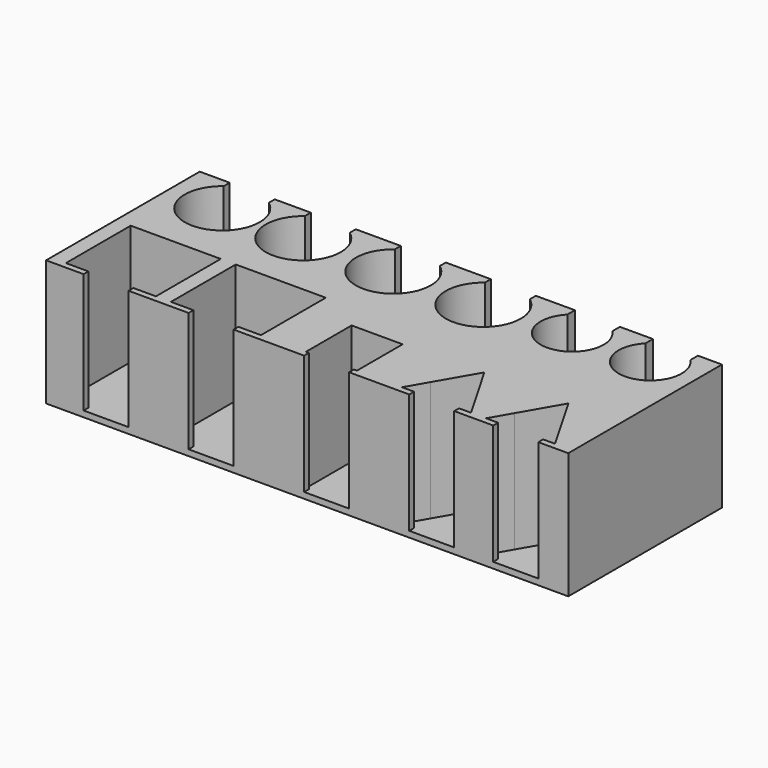
from build123d import *

# Parameters (mm, degrees)
F1_DEPTH = 40
F2_W     = 174
F2_H     = 64
F3_DEPTH = 2


with BuildPart() as f1:
    # F0 (on Top) → F1 (new body)
    with BuildSketch(Plane.XY):
        with BuildLine():
            Line((0, 64), (0, 0))
            Line((0, 0), (12.5, 0))
            Line((12.5, 0), (12.5, 2))
            Line((12.5, 2), (5, 2))
            Line((5, 2), (5, 29))
            Line((5, 29), (35, 29))
            Line((35, 29), (35, 2))
            Line((35, 2), (27.5, 2))
            Line((27.5, 2), (27.5, 0))
            Line((27.5, 0), (47.5, 0))
            Line((47.5, 0), (47.5, 2))
            Line((47.5, 2), (40, 2))
            Line((40, 2), (40, 29))
            Line((40, 29), (70, 29))
            Line((70, 29), (70, 2))
            Line((70, 2), (62.5, 2))
            Line((62.5, 2), (62.5, 0))
            Line((62.5, 0), (86, 0))
            Line((86, 0), (86, 2))
            Line((86, 2), (85, 2))
            Line((85, 2), (85, 21))
            Line((85, 21), (102, 21))
            Line((102, 21), (102, 2))
            Line((102, 2), (101, 2))
            Line((101, 2), (101, 0))
            Line((101, 0), (121, 0))
            Line((121, 0), (121, 2))
            Line((121, 2), (117, 2))
            Line((117, 2), (121, 8.9282032303))
            Line((121, 8.9282032303), (128.5, 21.918584287))
            Line((128.5, 21.918584287), (136, 8.9282032303))
            Line((136, 8.9282032303), (140, 2))
            Line((140, 2), (136, 2))
            Line((136, 2), (136, 0))
            Line((136, 0), (149, 0))
            Line((149, 0), (149, 2))
            Line((149, 2), (145, 2))
            Line((145, 2), (149, 8.9282032303))
            Line((149, 8.9282032303), (156.5, 21.918584287))
            Line((156.5, 21.918584287), (164, 8.9282032303))
            Line((164, 8.9282032303), (168, 2))
            Line((168, 2), (164, 2))
            Line((164, 2), (164, 0))
            Line((164, 0), (174, 0))
            Line((174, 0), (174, 64))
            Line((174, 64), (166, 64))
            Line((166, 64), (166, 60.8484692283))
            ThreePointArc((166, 60.8484692283), (168.2211110476, 57.4686269666), (169, 53.5))
            ThreePointArc((169, 53.5), (154.5313730334, 43.7788889524), (151, 60.8484692283))
            Line((151, 60.8484692283), (151, 64))
            Line((151, 64), (140, 64))
            Line((140, 64), (140, 60.8484692283))
            ThreePointArc((140, 60.8484692283), (142.2211110476, 57.4686269666), (143, 53.5))
            ThreePointArc((143, 53.5), (128.5313730334, 43.7788889524), (125, 60.8484692283))
            Line((125, 60.8484692283), (125, 64))
            Line((125, 64), (112, 64))
            Line((112, 64), (112, 61.5))
            ThreePointArc((112, 61.5), (115.6803398875, 57.0901699437), (117, 51.5))
            ThreePointArc((117, 51.5), (98.9098300563, 40.3196601125), (97, 61.5))
            Line((97, 61.5), (97, 64))
            Line((97, 64), (82, 64))
            Line((82, 64), (82, 61.5))
            ThreePointArc((82, 61.5), (85.6803398875, 57.0901699437), (87, 51.5))
            ThreePointArc((87, 51.5), (68.9098300563, 40.3196601125), (67, 61.5))
            Line((67, 61.5), (67, 64))
            Line((67, 64), (52, 64))
            Line((52, 64), (52, 61.5))
            ThreePointArc((52, 61.5), (55.6803398875, 57.0901699437), (57, 51.5))
            ThreePointArc((57, 51.5), (38.9098300563, 40.3196601125), (37, 61.5))
            Line((37, 61.5), (37, 64))
            Line((37, 64), (25, 64))
            Line((25, 64), (25, 61.5))
            ThreePointArc((25, 61.5), (28.6803398875, 57.0901699437), (30, 51.5))
            ThreePointArc((30, 51.5), (11.9098300563, 40.3196601125), (10, 61.5))
            Line((10, 61.5), (10, 64))
            Line((10, 64), (0, 64))
        make_face()
    extrude(amount=F1_DEPTH)

    # F2 (on face) → F3 (join)
    with BuildSketch(Plane(origin=(0, 0, 0), x_dir=(1, 0, 0), z_dir=(0, 0, -1))):
        with Locations((87, -32)):
            Rectangle(F2_W, F2_H)
    extrude(amount=F3_DEPTH)


solid = f1.part
